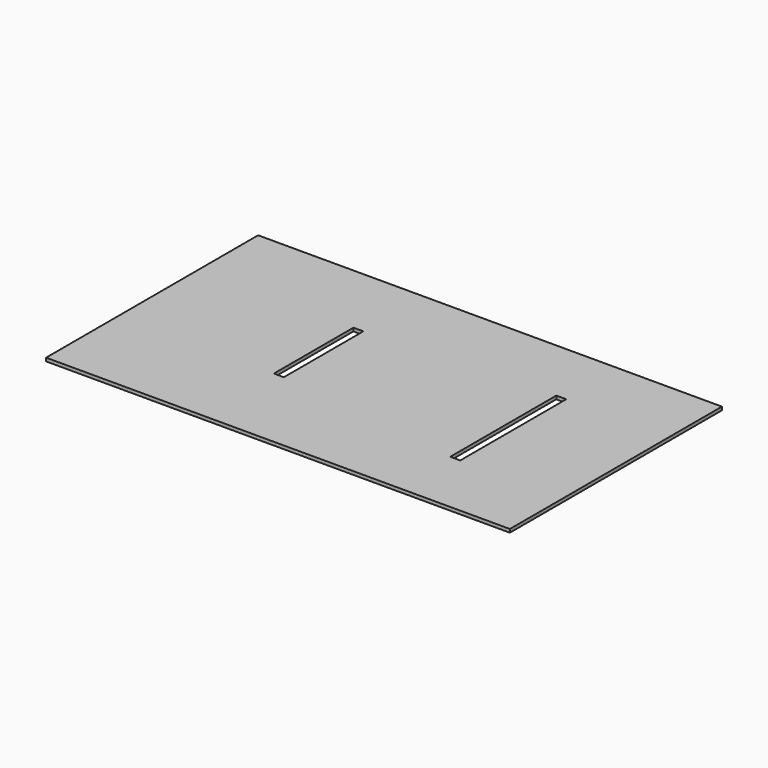
from build123d import *

# Parameters (mm, degrees)
F0_W     = 700
F0_H     = 400
F1_DEPTH = 5
F2_W     = 15
F2_H     = 200
F2_H_2   = 150
F3_DEPTH = 25


with BuildPart() as f1:
    # F0 (on Top) → F1 (new body)
    with BuildSketch(Plane.XY):
        Rectangle(F0_W, F0_H)
    extrude(amount=F1_DEPTH)

    # F2 (on face) → F3 (cut)
    with BuildSketch(Plane(origin=(0, 0, 0), x_dir=(1, 0, 0), z_dir=(0, 0, -1))):
        with Locations((187.5, 0)):
            Rectangle(F2_W, F2_H)
        with Locations((-107.5, -11.036794)):
            Rectangle(F2_W, F2_H_2)
    extrude(amount=-F3_DEPTH, mode=Mode.SUBTRACT)


solid = f1.part
